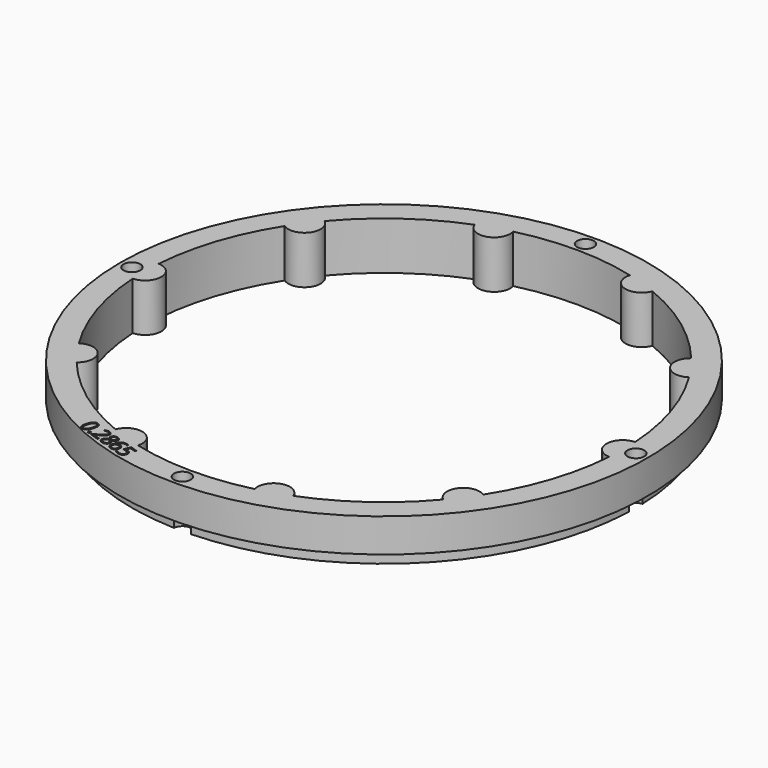
from build123d import *

# Parameters (mm, degrees)
SKETCH102_R             = 55
PAD036_DEPTH            = 10
POLARPATTERN011_COUNT   = 10
SKETCH103_R             = 55
SKETCH103_R_2           = 52.5
POCKET054_DEPTH         = 3
SKETCH104_R             = 1.75
POCKET055_DEPTH         = 321.770146
POCKET055_DEPTH_BACK    = 311.770146
POLARPATTERN012_COUNT   = 4
POCKET062_DEPTH         = 2
BODY006_ROLL_ANGLE      = 90
BODY006_PLACEMENT_ANGLE = -180


with BuildPart() as part:
    # Sketch102 → Pad036 (new body)
    with BuildSketch(Plane.XZ):
        Circle(SKETCH102_R)
        with BuildLine():
            ThreePointArc((49.864437, 3.679391), (-49.99901, -0.314581), (49.906787, -3.051656))
            ThreePointArc((49.864437, 3.679391), (46.631577, 0.293394), (49.906787, -3.051656))
        make_face(mode=Mode.SUBTRACT)
    pad036 = extrude(amount=PAD036_DEPTH)

    # PolarPattern011: Pad036 ×10 about axis
    polarpattern011_axis = Axis((0, 0, 0), (0, -1, 0))
    for i in range(1, POLARPATTERN011_COUNT):
        add(pad036.rotate(polarpattern011_axis, i * 360 / POLARPATTERN011_COUNT))

    # Sketch103 (on DatumPlane) → Pocket054 (cut)
    with BuildSketch(Plane.XZ.offset(10)):
        Circle(SKETCH103_R)
        Circle(SKETCH103_R_2, mode=Mode.SUBTRACT)
    extrude(amount=-POCKET054_DEPTH, mode=Mode.SUBTRACT)

    # Sketch104 (on DatumPlane) → Pocket055 (cut, two sides)
    with BuildSketch(Plane.XZ.offset(10)) as pocket055_sk:
        with Locations((52.5, 0)):
            Circle(SKETCH104_R)
    pocket055 = extrude(amount=-POCKET055_DEPTH, mode=Mode.SUBTRACT) + extrude(pocket055_sk.sketch, amount=POCKET055_DEPTH_BACK, mode=Mode.SUBTRACT)

    # PolarPattern012: Pocket055 ×4 about axis
    polarpattern012_axis = Axis((0, -10, 0), (0, -1, 0))
    for i in range(1, POLARPATTERN012_COUNT):
        add(pocket055.rotate(polarpattern012_axis, i * 360 / POLARPATTERN012_COUNT), mode=Mode.SUBTRACT)

    # Sketch117 (on Face2 of PolarPattern012) → Pocket062 (cut)
    with BuildSketch(Plane(origin=(0, 0, 0), x_dir=(1, 0, 0), z_dir=(0, 1, 0))):
        with BuildLine():
            add(Edge.make_bspline(
                [(21.9511, 48.2471), (22.0641, 48.5949), (22.2056, 48.8514)],
                knots=[0, 0, 0, 1, 1, 1], degree=2))
            add(Edge.make_bspline(
                [(22.2056, 48.8514), (22.3471, 49.1077), (22.5218, 49.2606)],
                knots=[0, 0, 0, 1, 1, 1], degree=2))
            add(Edge.make_bspline(
                [(22.5218, 49.2606), (22.6964, 49.4134), (22.9079, 49.4538)],
                knots=[0, 0, 0, 1, 1, 1], degree=2))
            add(Edge.make_bspline(
                [(22.9079, 49.4538), (23.1193, 49.4941), (23.3708, 49.4124)],
                knots=[0, 0, 0, 1, 1, 1], degree=2))
            add(Edge.make_bspline(
                [(23.3708, 49.4124), (23.6886, 49.3092), (23.8397, 49.0678)],
                knots=[0, 0, 0, 1, 1, 1], degree=2))
            add(Edge.make_bspline(
                [(23.8397, 49.0678), (23.9908, 48.8264), (23.9863, 48.4639)],
                knots=[0, 0, 0, 1, 1, 1], degree=2))
            add(Edge.make_bspline(
                [(23.9863, 48.4639), (23.9816, 48.1015), (23.8305, 47.6364)],
                knots=[0, 0, 0, 1, 1, 1], degree=2))
            add(Edge.make_bspline(
                [(23.8305, 47.6364), (23.6819, 47.1793), (23.4824, 46.8801)],
                knots=[0, 0, 0, 1, 1, 1], degree=2))
            add(Edge.make_bspline(
                [(23.4824, 46.8801), (23.2828, 46.581), (23.0187, 46.4714)],
                knots=[0, 0, 0, 1, 1, 1], degree=2))
            add(Edge.make_bspline(
                [(23.0187, 46.4714), (22.7546, 46.3617), (22.4153, 46.4719)],
                knots=[0, 0, 0, 1, 1, 1], degree=2))
            add(Edge.make_bspline(
                [(22.4153, 46.4719), (22.0937, 46.5764), (21.9419, 46.8191)],
                knots=[0, 0, 0, 1, 1, 1], degree=2))
            add(Edge.make_bspline(
                [(21.9419, 46.8191), (21.7901, 47.0617), (21.7957, 47.4239)],
                knots=[0, 0, 0, 1, 1, 1], degree=2))
            add(Edge.make_bspline(
                [(21.7957, 47.4239), (21.8013, 47.7861), (21.9511, 48.2471)],
                knots=[0, 0, 0, 1, 1, 1], degree=2))
        make_face()
        with BuildLine():
            add(Edge.make_bspline(
                [(23.5049, 47.7422), (23.6345, 48.1411), (23.6605, 48.4267)],
                knots=[0, 0, 0, 1, 1, 1], degree=2))
            add(Edge.make_bspline(
                [(23.6605, 48.4267), (23.6864, 48.7121), (23.5938, 48.888)],
                knots=[0, 0, 0, 1, 1, 1], degree=2))
            add(Edge.make_bspline(
                [(23.5938, 48.888), (23.5011, 49.064), (23.2808, 49.1356)],
                knots=[0, 0, 0, 1, 1, 1], degree=2))
            add(Edge.make_bspline(
                [(23.2808, 49.1356), (23.0605, 49.2071), (22.8826, 49.1203)],
                knots=[0, 0, 0, 1, 1, 1], degree=2))
            add(Edge.make_bspline(
                [(22.8826, 49.1203), (22.7044, 49.0333), (22.5567, 48.7874)],
                knots=[0, 0, 0, 1, 1, 1], degree=2))
            add(Edge.make_bspline(
                [(22.5567, 48.7874), (22.4088, 48.5415), (22.2786, 48.1407)],
                knots=[0, 0, 0, 1, 1, 1], degree=2))
            add(Edge.make_bspline(
                [(22.2786, 48.1407), (22.1509, 47.7477), (22.1253, 47.4634)],
                knots=[0, 0, 0, 1, 1, 1], degree=2))
            add(Edge.make_bspline(
                [(22.1253, 47.4634), (22.0997, 47.1788), (22.1907, 47.0012)],
                knots=[0, 0, 0, 1, 1, 1], degree=2))
            add(Edge.make_bspline(
                [(22.1907, 47.0012), (22.2817, 46.8235), (22.5059, 46.7507)],
                knots=[0, 0, 0, 1, 1, 1], degree=2))
            add(Edge.make_bspline(
                [(22.5059, 46.7507), (22.7301, 46.6778), (22.9082, 46.7681)],
                knots=[0, 0, 0, 1, 1, 1], degree=2))
            add(Edge.make_bspline(
                [(22.9082, 46.7681), (23.0862, 46.8583), (23.2318, 47.1038)],
                knots=[0, 0, 0, 1, 1, 1], degree=2))
            add(Edge.make_bspline(
                [(23.2318, 47.1038), (23.3772, 47.3493), (23.5049, 47.7422)],
                knots=[0, 0, 0, 1, 1, 1], degree=2))
        make_face(mode=Mode.SUBTRACT)
        with BuildLine():
            add(Edge.make_bspline(
                [(21.8527, 49.6165), (21.8084, 49.4801), (21.7234, 49.4442)],
                knots=[0, 0, 0, 1, 1, 1], degree=2))
            add(Edge.make_bspline(
                [(21.7234, 49.4442), (21.6384, 49.4081), (21.5429, 49.4392)],
                knots=[0, 0, 0, 1, 1, 1], degree=2))
            add(Edge.make_bspline(
                [(21.5429, 49.4392), (21.4435, 49.4715), (21.3939, 49.5512)],
                knots=[0, 0, 0, 1, 1, 1], degree=2))
            add(Edge.make_bspline(
                [(21.3939, 49.5512), (21.3444, 49.6308), (21.3887, 49.7673)],
                knots=[0, 0, 0, 1, 1, 1], degree=2))
            add(Edge.make_bspline(
                [(21.3887, 49.7673), (21.4324, 49.9018), (21.5206, 49.9411)],
                knots=[0, 0, 0, 1, 1, 1], degree=2))
            add(Edge.make_bspline(
                [(21.5206, 49.9411), (21.6088, 49.9803), (21.7082, 49.948)],
                knots=[0, 0, 0, 1, 1, 1], degree=2))
            add(Edge.make_bspline(
                [(21.7082, 49.948), (21.8038, 49.917), (21.8501, 49.8341)],
                knots=[0, 0, 0, 1, 1, 1], degree=2))
            add(Edge.make_bspline(
                [(21.8501, 49.8341), (21.8964, 49.7511), (21.8527, 49.6165)],
                knots=[0, 0, 0, 1, 1, 1], degree=2))
        make_face()
        with BuildLine():
            Line((19.103211, 50.750739), (20.970925, 50.143882))
            Line((20.970925, 50.143882), (20.882873, 49.872888))
            Line((20.882873, 49.872888), (19.8685, 49.3448))
            add(Edge.make_bspline(
                [(19.8685, 49.3448), (19.5861, 49.1988), (19.3864, 49.078)],
                knots=[0, 0, 0, 1, 1, 1], degree=2))
            add(Edge.make_bspline(
                [(19.3864, 49.078), (19.1865, 48.9571), (19.0574, 48.8187)],
                knots=[0, 0, 0, 1, 1, 1], degree=2))
            add(Edge.make_bspline(
                [(19.0574, 48.8187), (18.9283, 48.6802), (18.8648, 48.4847)],
                knots=[0, 0, 0, 1, 1, 1], degree=2))
            add(Edge.make_bspline(
                [(18.8648, 48.4847), (18.7861, 48.2424), (18.8879, 48.0678)],
                knots=[0, 0, 0, 1, 1, 1], degree=2))
            add(Edge.make_bspline(
                [(18.8879, 48.0678), (18.9895, 47.8932), (19.2235, 47.8172)],
                knots=[0, 0, 0, 1, 1, 1], degree=2))
            add(Edge.make_bspline(
                [(19.2235, 47.8172), (19.4282, 47.7507), (19.6089, 47.7696)],
                knots=[0, 0, 0, 1, 1, 1], degree=2))
            add(Edge.make_bspline(
                [(19.6089, 47.7696), (19.7896, 47.7885), (19.997131, 47.863292)],
                knots=[0, 0, 0, 1, 1, 1], degree=2))
            Line((19.997131, 47.863292), (20.0997, 47.5886))
            add(Edge.make_bspline(
                [(20.0997, 47.5886), (19.9556, 47.5298), (19.798, 47.4991)],
                knots=[0, 0, 0, 1, 1, 1], degree=2))
            add(Edge.make_bspline(
                [(19.798, 47.4991), (19.6403, 47.4684), (19.4734, 47.4752)],
                knots=[0, 0, 0, 1, 1, 1], degree=2))
            add(Edge.make_bspline(
                [(19.4734, 47.4752), (19.3064, 47.4821), (19.1329, 47.5384)],
                knots=[0, 0, 0, 1, 1, 1], degree=2))
            add(Edge.make_bspline(
                [(19.1329, 47.5384), (18.8697, 47.624), (18.7085, 47.7779)],
                knots=[0, 0, 0, 1, 1, 1], degree=2))
            add(Edge.make_bspline(
                [(18.7085, 47.7779), (18.5472, 47.9318), (18.4982, 48.1356)],
                knots=[0, 0, 0, 1, 1, 1], degree=2))
            add(Edge.make_bspline(
                [(18.4982, 48.1356), (18.4491, 48.3396), (18.5253, 48.574)],
                knots=[0, 0, 0, 1, 1, 1], degree=2))
            add(Edge.make_bspline(
                [(18.5253, 48.574), (18.5989, 48.8006), (18.7517, 48.9659)],
                knots=[0, 0, 0, 1, 1, 1], degree=2))
            add(Edge.make_bspline(
                [(18.7517, 48.9659), (18.9046, 49.1312), (19.1283, 49.2691)],
                knots=[0, 0, 0, 1, 1, 1], degree=2))
            add(Edge.make_bspline(
                [(19.1283, 49.2691), (19.352, 49.407), (19.637638, 49.549676)],
                knots=[0, 0, 0, 1, 1, 1], degree=2))
            Line((19.637638, 49.549676), (20.458839, 49.967557))
            Line((20.458839, 49.967557), (20.463274, 49.981204))
            Line((20.463274, 49.981204), (19.006925, 50.454401))
            Line((19.006925, 50.454401), (19.103211, 50.750739))
        make_face()
        with BuildLine():
            add(Edge.make_bspline(
                [(16.8088, 48.2936), (16.5612, 48.374), (16.3956, 48.5143)],
                knots=[0, 0, 0, 1, 1, 1], degree=2))
            add(Edge.make_bspline(
                [(16.3956, 48.5143), (16.2299, 48.6547), (16.1711, 48.8415)],
                knots=[0, 0, 0, 1, 1, 1], degree=2))
            add(Edge.make_bspline(
                [(16.1711, 48.8415), (16.1121, 49.0282), (16.1839, 49.2493)],
                knots=[0, 0, 0, 1, 1, 1], degree=2))
            add(Edge.make_bspline(
                [(16.1839, 49.2493), (16.2405, 49.4234), (16.3579, 49.5291)],
                knots=[0, 0, 0, 1, 1, 1], degree=2))
            add(Edge.make_bspline(
                [(16.3579, 49.5291), (16.4752, 49.6349), (16.6333, 49.6905)],
                knots=[0, 0, 0, 1, 1, 1], degree=2))
            add(Edge.make_bspline(
                [(16.6333, 49.6905), (16.7915, 49.7462), (16.9703, 49.7724)],
                knots=[0, 0, 0, 1, 1, 1], degree=2))
            add(Edge.make_bspline(
                [(16.9703, 49.7724), (16.8144, 49.9161), (16.7016, 50.0696)],
                knots=[0, 0, 0, 1, 1, 1], degree=2))
            add(Edge.make_bspline(
                [(16.7016, 50.0696), (16.5887, 50.2231), (16.5493, 50.3938)],
                knots=[0, 0, 0, 1, 1, 1], degree=2))
            add(Edge.make_bspline(
                [(16.5493, 50.3938), (16.5099, 50.5645), (16.5735, 50.7601)],
                knots=[0, 0, 0, 1, 1, 1], degree=2))
            add(Edge.make_bspline(
                [(16.5735, 50.7601), (16.6517, 51.0007), (16.8247, 51.1382)],
                knots=[0, 0, 0, 1, 1, 1], degree=2))
            add(Edge.make_bspline(
                [(16.8247, 51.1382), (16.9975, 51.2756), (17.2366, 51.3018)],
                knots=[0, 0, 0, 1, 1, 1], degree=2))
            add(Edge.make_bspline(
                [(17.2366, 51.3018), (17.4757, 51.3278), (17.7565, 51.2366)],
                knots=[0, 0, 0, 1, 1, 1], degree=2))
            add(Edge.make_bspline(
                [(17.7565, 51.2366), (18.0586, 51.1384), (18.2407, 50.9787)],
                knots=[0, 0, 0, 1, 1, 1], degree=2))
            add(Edge.make_bspline(
                [(18.2407, 50.9787), (18.4226, 50.819), (18.4772, 50.612)],
                knots=[0, 0, 0, 1, 1, 1], degree=2))
            add(Edge.make_bspline(
                [(18.4772, 50.612), (18.5316, 50.4051), (18.4535, 50.1645)],
                knots=[0, 0, 0, 1, 1, 1], degree=2))
            add(Edge.make_bspline(
                [(18.4535, 50.1645), (18.3892, 49.9668), (18.2581, 49.8483)],
                knots=[0, 0, 0, 1, 1, 1], degree=2))
            add(Edge.make_bspline(
                [(18.2581, 49.8483), (18.1269, 49.7299), (17.9541, 49.6692)],
                knots=[0, 0, 0, 1, 1, 1], degree=2))
            add(Edge.make_bspline(
                [(17.9541, 49.6692), (17.7814, 49.6085), (17.5941, 49.5893)],
                knots=[0, 0, 0, 1, 1, 1], degree=2))
            add(Edge.make_bspline(
                [(17.5941, 49.5893), (17.711, 49.4648), (17.7966, 49.3267)],
                knots=[0, 0, 0, 1, 1, 1], degree=2))
            add(Edge.make_bspline(
                [(17.7966, 49.3267), (17.882, 49.1885), (17.9078, 49.032)],
                knots=[0, 0, 0, 1, 1, 1], degree=2))
            add(Edge.make_bspline(
                [(17.9078, 49.032), (17.9334, 48.8756), (17.8755, 48.6975)],
                knots=[0, 0, 0, 1, 1, 1], degree=2))
            add(Edge.make_bspline(
                [(17.8755, 48.6975), (17.805, 48.4804), (17.6456, 48.3645)],
                knots=[0, 0, 0, 1, 1, 1], degree=2))
            add(Edge.make_bspline(
                [(17.6456, 48.3645), (17.4861, 48.2487), (17.2684, 48.2319)],
                knots=[0, 0, 0, 1, 1, 1], degree=2))
            add(Edge.make_bspline(
                [(17.2684, 48.2319), (17.0506, 48.215), (16.8088, 48.2936)],
                knots=[0, 0, 0, 1, 1, 1], degree=2))
        make_face()
        with BuildLine():
            add(Edge.make_bspline(
                [(18.1365, 50.2701), (18.2077, 50.4895), (18.0998, 50.6815)],
                knots=[0, 0, 0, 1, 1, 1], degree=2))
            add(Edge.make_bspline(
                [(18.0998, 50.6815), (17.9919, 50.8734), (17.68, 50.9748)],
                knots=[0, 0, 0, 1, 1, 1], degree=2))
            add(Edge.make_bspline(
                [(17.68, 50.9748), (17.3837, 51.0711), (17.1757, 50.9817)],
                knots=[0, 0, 0, 1, 1, 1], degree=2))
            add(Edge.make_bspline(
                [(17.1757, 50.9817), (16.9678, 50.8924), (16.8927, 50.6613)],
                knots=[0, 0, 0, 1, 1, 1], degree=2))
            add(Edge.make_bspline(
                [(16.8927, 50.6613), (16.8463, 50.5183), (16.885, 50.3856)],
                knots=[0, 0, 0, 1, 1, 1], degree=2))
            add(Edge.make_bspline(
                [(16.885, 50.3856), (16.9238, 50.2528), (17.0323, 50.1223)],
                knots=[0, 0, 0, 1, 1, 1], degree=2))
            add(Edge.make_bspline(
                [(17.0323, 50.1223), (17.1408, 49.9918), (17.303084, 49.861185)],
                knots=[0, 0, 0, 1, 1, 1], degree=2))
            Line((17.303084, 49.861185), (17.365, 49.8129))
            add(Edge.make_bspline(
                [(17.365, 49.8129), (17.5685, 49.829), (17.7239, 49.8792)],
                knots=[0, 0, 0, 1, 1, 1], degree=2))
            add(Edge.make_bspline(
                [(17.7239, 49.8792), (17.8792, 49.9295), (17.983, 50.0235)],
                knots=[0, 0, 0, 1, 1, 1], degree=2))
            add(Edge.make_bspline(
                [(17.983, 50.0235), (18.0868, 50.1174), (18.1365, 50.2701)],
                knots=[0, 0, 0, 1, 1, 1], degree=2))
        make_face(mode=Mode.SUBTRACT)
        with BuildLine():
            add(Edge.make_bspline(
                [(16.8989, 48.5574), (17.1289, 48.4827), (17.3111, 48.5459)],
                knots=[0, 0, 0, 1, 1, 1], degree=2))
            add(Edge.make_bspline(
                [(17.3111, 48.5459), (17.4933, 48.609), (17.5607, 48.8166)],
                knots=[0, 0, 0, 1, 1, 1], degree=2))
            add(Edge.make_bspline(
                [(17.5607, 48.8166), (17.6091, 48.9654), (17.5714, 49.0913)],
                knots=[0, 0, 0, 1, 1, 1], degree=2))
            add(Edge.make_bspline(
                [(17.5714, 49.0913), (17.5336, 49.2173), (17.4346, 49.3306)],
                knots=[0, 0, 0, 1, 1, 1], degree=2))
            add(Edge.make_bspline(
                [(17.4346, 49.3306), (17.3356, 49.444), (17.2039, 49.556)],
                knots=[0, 0, 0, 1, 1, 1], degree=2))
            add(Edge.make_bspline(
                [(17.2039, 49.556), (17.0354, 49.5415), (16.8959, 49.5035)],
                knots=[0, 0, 0, 1, 1, 1], degree=2))
            add(Edge.make_bspline(
                [(16.8959, 49.5035), (16.7564, 49.4655), (16.6564, 49.3833)],
                knots=[0, 0, 0, 1, 1, 1], degree=2))
            add(Edge.make_bspline(
                [(16.6564, 49.3833), (16.5563, 49.301), (16.5093, 49.1561)],
                knots=[0, 0, 0, 1, 1, 1], degree=2))
            add(Edge.make_bspline(
                [(16.5093, 49.1561), (16.4418, 48.9485), (16.5515, 48.7916)],
                knots=[0, 0, 0, 1, 1, 1], degree=2))
            add(Edge.make_bspline(
                [(16.5515, 48.7916), (16.661, 48.6347), (16.8989, 48.5574)],
                knots=[0, 0, 0, 1, 1, 1], degree=2))
        make_face(mode=Mode.SUBTRACT)
        with BuildLine():
            add(Edge.make_bspline(
                [(15.9874, 50.4163), (15.9035, 50.158), (15.7874, 49.9233)],
                knots=[0, 0, 0, 1, 1, 1], degree=2))
            add(Edge.make_bspline(
                [(15.7874, 49.9233), (15.6712, 49.6885), (15.5165, 49.5041)],
                knots=[0, 0, 0, 1, 1, 1], degree=2))
            add(Edge.make_bspline(
                [(15.5165, 49.5041), (15.3617, 49.3197), (15.1614, 49.2075)],
                knots=[0, 0, 0, 1, 1, 1], degree=2))
            add(Edge.make_bspline(
                [(15.1614, 49.2075), (14.9611, 49.0951), (14.7103, 49.076)],
                knots=[0, 0, 0, 1, 1, 1], degree=2))
            add(Edge.make_bspline(
                [(14.7103, 49.076), (14.4594, 49.0569), (14.1494, 49.1576)],
                knots=[0, 0, 0, 1, 1, 1], degree=2))
            add(Edge.make_bspline(
                [(14.1494, 49.1576), (14.0617, 49.1862), (13.9632, 49.2279)],
                knots=[0, 0, 0, 1, 1, 1], degree=2))
            add(Edge.make_bspline(
                [(13.9632, 49.2279), (13.8647, 49.2696), (13.804701, 49.310615)],
                knots=[0, 0, 0, 1, 1, 1], degree=2))
            Line((13.804701, 49.310615), (13.8953, 49.5894))
            add(Edge.make_bspline(
                [(13.8953, 49.5894), (13.9592, 49.5406), (14.0481, 49.4988)],
                knots=[0, 0, 0, 1, 1, 1], degree=2))
            add(Edge.make_bspline(
                [(14.0481, 49.4988), (14.1368, 49.4571), (14.2304, 49.4266)],
                knots=[0, 0, 0, 1, 1, 1], degree=2))
            add(Edge.make_bspline(
                [(14.2304, 49.4266), (14.593, 49.3088), (14.8523, 49.4)],
                knots=[0, 0, 0, 1, 1, 1], degree=2))
            add(Edge.make_bspline(
                [(14.8523, 49.4), (15.1114, 49.4912), (15.2911, 49.7326)],
                knots=[0, 0, 0, 1, 1, 1], degree=2))
            add(Edge.make_bspline(
                [(15.2911, 49.7326), (15.4709, 49.9741), (15.594628, 50.308525)],
                knots=[0, 0, 0, 1, 1, 1], degree=2))
            Line((15.594628, 50.308525), (15.5732, 50.3155))
            add(Edge.make_bspline(
                [(15.5732, 50.3155), (15.4811, 50.2377), (15.3619, 50.1892)],
                knots=[0, 0, 0, 1, 1, 1], degree=2))
            add(Edge.make_bspline(
                [(15.3619, 50.1892), (15.2426, 50.1405), (15.0939, 50.1371)],
                knots=[0, 0, 0, 1, 1, 1], degree=2))
            add(Edge.make_bspline(
                [(15.0939, 50.1371), (14.9451, 50.1337), (14.7677, 50.1914)],
                knots=[0, 0, 0, 1, 1, 1], degree=2))
            add(Edge.make_bspline(
                [(14.7677, 50.1914), (14.5181, 50.2725), (14.365, 50.4346)],
                knots=[0, 0, 0, 1, 1, 1], degree=2))
            add(Edge.make_bspline(
                [(14.365, 50.4346), (14.2118, 50.5967), (14.1724, 50.8235)],
                knots=[0, 0, 0, 1, 1, 1], degree=2))
            add(Edge.make_bspline(
                [(14.1724, 50.8235), (14.1329, 51.0503), (14.2224, 51.326)],
                knots=[0, 0, 0, 1, 1, 1], degree=2))
            add(Edge.make_bspline(
                [(14.2224, 51.326), (14.3183, 51.6212), (14.4974, 51.8007)],
                knots=[0, 0, 0, 1, 1, 1], degree=2))
            add(Edge.make_bspline(
                [(14.4974, 51.8007), (14.6764, 51.9802), (14.916, 52.0309)],
                knots=[0, 0, 0, 1, 1, 1], degree=2))
            add(Edge.make_bspline(
                [(14.916, 52.0309), (15.1556, 52.0817), (15.4344, 51.9911)],
                knots=[0, 0, 0, 1, 1, 1], degree=2))
            add(Edge.make_bspline(
                [(15.4344, 51.9911), (15.643, 51.9233), (15.7924, 51.7861)],
                knots=[0, 0, 0, 1, 1, 1], degree=2))
            add(Edge.make_bspline(
                [(15.7924, 51.7861), (15.9418, 51.6489), (16.02, 51.4483)],
                knots=[0, 0, 0, 1, 1, 1], degree=2))
            add(Edge.make_bspline(
                [(16.02, 51.4483), (16.0981, 51.2477), (16.0936, 50.9886)],
                knots=[0, 0, 0, 1, 1, 1], degree=2))
            add(Edge.make_bspline(
                [(16.0936, 50.9886), (16.0892, 50.7294), (15.9874, 50.4163)],
                knots=[0, 0, 0, 1, 1, 1], degree=2))
        make_face()
        with BuildLine():
            add(Edge.make_bspline(
                [(15.3496, 51.7169), (15.0844, 51.803), (14.8692, 51.6847)],
                knots=[0, 0, 0, 1, 1, 1], degree=2))
            add(Edge.make_bspline(
                [(14.8692, 51.6847), (14.654, 51.5664), (14.5421, 51.222)],
                knots=[0, 0, 0, 1, 1, 1], degree=2))
            add(Edge.make_bspline(
                [(14.5421, 51.222), (14.4506, 50.9402), (14.5395, 50.7297)],
                knots=[0, 0, 0, 1, 1, 1], degree=2))
            add(Edge.make_bspline(
                [(14.5395, 50.7297), (14.6284, 50.519), (14.915, 50.4259)],
                knots=[0, 0, 0, 1, 1, 1], degree=2))
            add(Edge.make_bspline(
                [(14.915, 50.4259), (15.11, 50.3625), (15.2806, 50.3969)],
                knots=[0, 0, 0, 1, 1, 1], degree=2))
            add(Edge.make_bspline(
                [(15.2806, 50.3969), (15.4513, 50.4313), (15.5713, 50.5286)],
                knots=[0, 0, 0, 1, 1, 1], degree=2))
            add(Edge.make_bspline(
                [(15.5713, 50.5286), (15.6913, 50.6259), (15.7326, 50.753)],
                knots=[0, 0, 0, 1, 1, 1], degree=2))
            add(Edge.make_bspline(
                [(15.7326, 50.753), (15.7746, 50.8822), (15.7798, 51.0276)],
                knots=[0, 0, 0, 1, 1, 1], degree=2))
            add(Edge.make_bspline(
                [(15.7798, 51.0276), (15.785, 51.1731), (15.7439, 51.3119)],
                knots=[0, 0, 0, 1, 1, 1], degree=2))
            add(Edge.make_bspline(
                [(15.7439, 51.3119), (15.7028, 51.4507), (15.6061, 51.5578)],
                knots=[0, 0, 0, 1, 1, 1], degree=2))
            add(Edge.make_bspline(
                [(15.6061, 51.5578), (15.5094, 51.665), (15.3496, 51.7169)],
                knots=[0, 0, 0, 1, 1, 1], degree=2))
        make_face(mode=Mode.SUBTRACT)
        with BuildLine():
            add(Edge.make_bspline(
                [(12.665, 50.9114), (12.3745, 51.0058), (12.1922, 51.1744)],
                knots=[0, 0, 0, 1, 1, 1], degree=2))
            add(Edge.make_bspline(
                [(12.1922, 51.1744), (12.0099, 51.3429), (11.9531, 51.5693)],
                knots=[0, 0, 0, 1, 1, 1], degree=2))
            add(Edge.make_bspline(
                [(11.9531, 51.5693), (11.8962, 51.7957), (11.9834, 52.0641)],
                knots=[0, 0, 0, 1, 1, 1], degree=2))
            add(Edge.make_bspline(
                [(11.9834, 52.0641), (12.0789, 52.358), (12.2747, 52.5295)],
                knots=[0, 0, 0, 1, 1, 1], degree=2))
            add(Edge.make_bspline(
                [(12.2747, 52.5295), (12.4705, 52.7008), (12.7456, 52.7381)],
                knots=[0, 0, 0, 1, 1, 1], degree=2))
            add(Edge.make_bspline(
                [(12.7456, 52.7381), (13.0206, 52.7754), (13.3521, 52.6677)],
                knots=[0, 0, 0, 1, 1, 1], degree=2))
            add(Edge.make_bspline(
                [(13.3521, 52.6677), (13.5743, 52.5955), (13.7527, 52.4944)],
                knots=[0, 0, 0, 1, 1, 1], degree=2))
            add(Edge.make_bspline(
                [(13.7527, 52.4944), (13.9311, 52.3933), (14.036375, 52.272902)],
                knots=[0, 0, 0, 1, 1, 1], degree=2))
            Line((14.036375, 52.272902), (13.9363, 51.9649))
            add(Edge.make_bspline(
                [(13.9363, 51.9649), (13.8218, 52.0969), (13.6356, 52.2135)],
                knots=[0, 0, 0, 1, 1, 1], degree=2))
            add(Edge.make_bspline(
                [(13.6356, 52.2135), (13.4493, 52.33), (13.2582, 52.3921)],
                knots=[0, 0, 0, 1, 1, 1], degree=2))
            add(Edge.make_bspline(
                [(13.2582, 52.3921), (13.0418, 52.4624), (12.8564, 52.4456)],
                knots=[0, 0, 0, 1, 1, 1], degree=2))
            add(Edge.make_bspline(
                [(12.8564, 52.4456), (12.6709, 52.4289), (12.5341, 52.316)],
                knots=[0, 0, 0, 1, 1, 1], degree=2))
            add(Edge.make_bspline(
                [(12.5341, 52.316), (12.3971, 52.203), (12.327, 51.9871)],
                knots=[0, 0, 0, 1, 1, 1], degree=2))
            add(Edge.make_bspline(
                [(12.327, 51.9871), (12.2338, 51.7005), (12.3577, 51.4877)],
                knots=[0, 0, 0, 1, 1, 1], degree=2))
            add(Edge.make_bspline(
                [(12.3577, 51.4877), (12.4814, 51.275), (12.8577, 51.1527)],
                knots=[0, 0, 0, 1, 1, 1], degree=2))
            add(Edge.make_bspline(
                [(12.8577, 51.1527), (12.9785, 51.1134), (13.1291, 51.086)],
                knots=[0, 0, 0, 1, 1, 1], degree=2))
            add(Edge.make_bspline(
                [(13.1291, 51.086), (13.2797, 51.0587), (13.380917, 51.051656)],
                knots=[0, 0, 0, 1, 1, 1], degree=2))
            Line((13.380917, 51.051656), (13.509843, 50.891217))
            Line((13.509843, 50.891217), (12.966448, 49.590308))
            Line((12.966448, 49.590308), (11.549092, 50.050835))
            Line((11.549092, 50.050835), (11.645378, 50.347174))
            Line((11.645378, 50.347174), (12.785892, 49.976598))
            Line((12.785892, 49.976598), (13.137, 50.8119))
            add(Edge.make_bspline(
                [(13.137, 50.8119), (13.0579, 50.8204), (12.9356, 50.8419)],
                knots=[0, 0, 0, 1, 1, 1], degree=2))
            add(Edge.make_bspline(
                [(12.9356, 50.8419), (12.8132, 50.8632), (12.665, 50.9114)],
                knots=[0, 0, 0, 1, 1, 1], degree=2))
        make_face()
    extrude(amount=-POCKET062_DEPTH, mode=Mode.SUBTRACT)


with BuildPart() as part_1:
    # Body006 roll: moved
    add(part.part.rotate(Axis((0, 0, 0), (1, 0, 0)), BODY006_ROLL_ANGLE))


with BuildPart() as part_2:
    # Body006 placement: moved
    add(part_1.part.moved(Location((-1.52, 0, 80))).rotate(Axis((-1.52, 0, 80), (0, 0, 1)), BODY006_PLACEMENT_ANGLE))


solid = part_2.part
